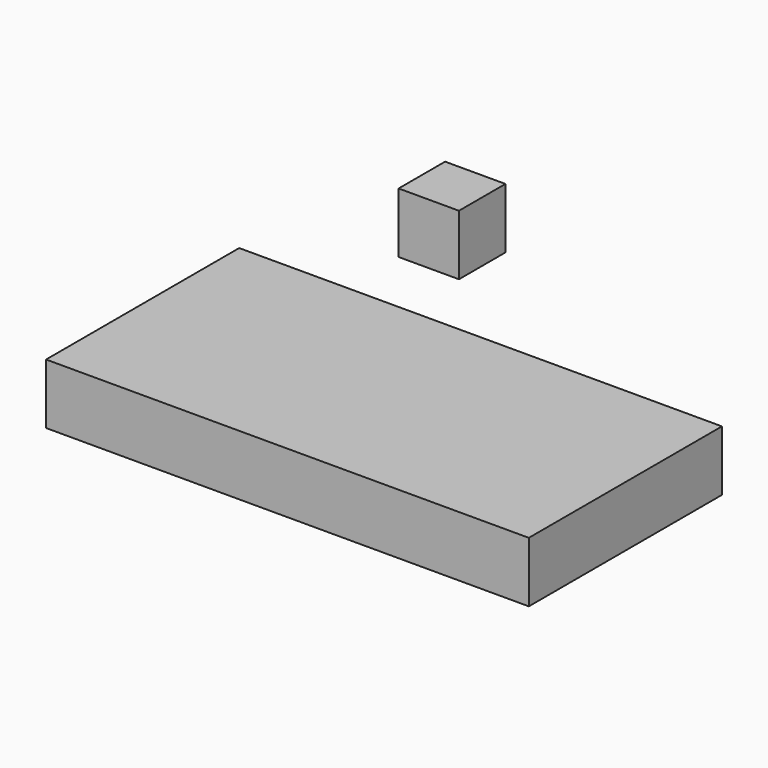
from build123d import *

# Parameters (mm, degrees)
F0_W     = 101.6
F0_H     = 50.8
F1_DEPTH = 12.7
F2_DEPTH = 12.7
F0_W_2   = 12.7
F0_H_2   = 12.2296307023
F0_H_3   = 12.7


with BuildPart() as f1:
    # F0 (on Top) → F1 (new body)
    with BuildSketch(Plane.XY):
        with Locations((1.2797895743, 0.7095372477)):
            Rectangle(F0_W, F0_H)
    extrude(amount=F1_DEPTH)

    # F0 (on Top) → F2 (join)
    with BuildSketch(Plane.XY):
        with Locations((1.2797895743, 0.7095372477)):
            Rectangle(F0_W, F0_H)
    extrude(amount=F2_DEPTH)


with BuildPart() as f2:
    # F0 (on Top) → F2, piece 2 (new body)
    with BuildSketch(Plane.XY):
        with Locations((-35.9578634432, 65.1502772444)):
            Rectangle(F0_W_2, F0_H_2)
    extrude(amount=F2_DEPTH)


with BuildPart() as f2b:
    # F0 (on Top) → F2, piece 3 (new body)
    with BuildSketch(Plane.XY):
        with Locations((-3.0319387976, 58.800275843)):
            Rectangle(F0_W_2, F0_H_3)
    extrude(amount=F2_DEPTH)


solid = Compound([f1.part, f2.part])
